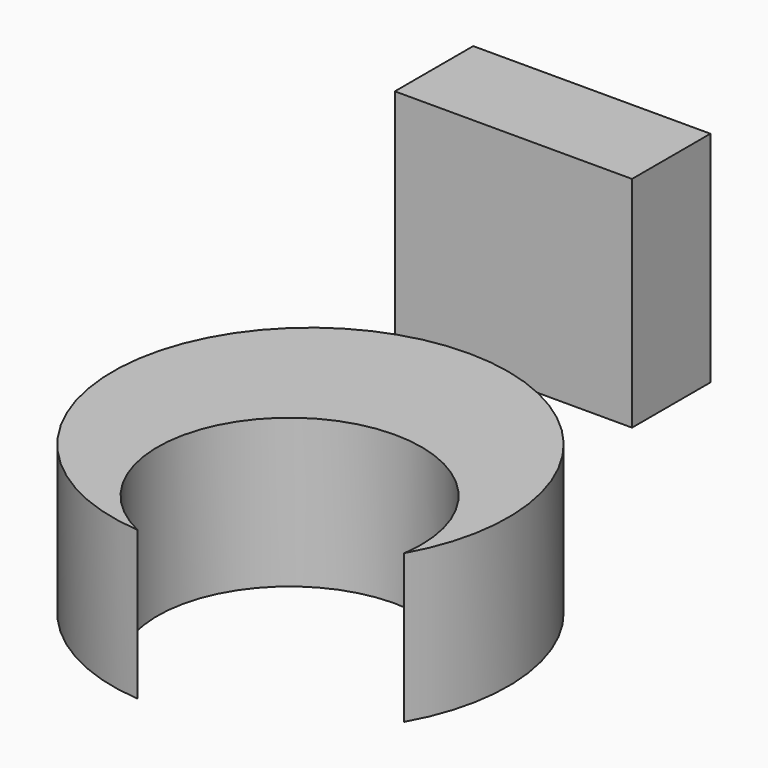
from build123d import *

# Parameters (mm, degrees)
F3_DEPTH = 75.0830527395
F4_W     = 119.8862195015
F4_H     = 49.5163053274
F5_DEPTH = 110.6836441904


with BuildPart() as f3:
    # F1 (on Top) → F3 (new body)
    with BuildSketch(Plane.XY):
        with BuildLine():
            ThreePointArc((86.8587927409, -118.30267436), (96.619474573, -94.4309796617), (99.9468854987, -68.8564404845))
            ThreePointArc((99.9468854987, -68.8564404845), (-67.9235324835, 4.4632271078), (-7.6257242735, -168.5119884996))
            ThreePointArc((-7.6257242735, -168.5119884996), (-14.7918290052, -51.8220899042), (87.6288263669, -108.1949099898))
            ThreePointArc((87.6288263669, -108.1949099898), (87.43603945, -113.2634367074), (86.8587927409, -118.30267436))
        make_face()
    extrude(amount=F3_DEPTH)


with BuildPart() as f5:
    # F4 (on Top) → F5 (new body)
    with BuildSketch(Plane.XY):
        with Locations((-59.9431097507, 159.0637043118)):
            Rectangle(F4_W, F4_H)
    extrude(amount=F5_DEPTH)


solid = Compound([f3.part, f5.part])
